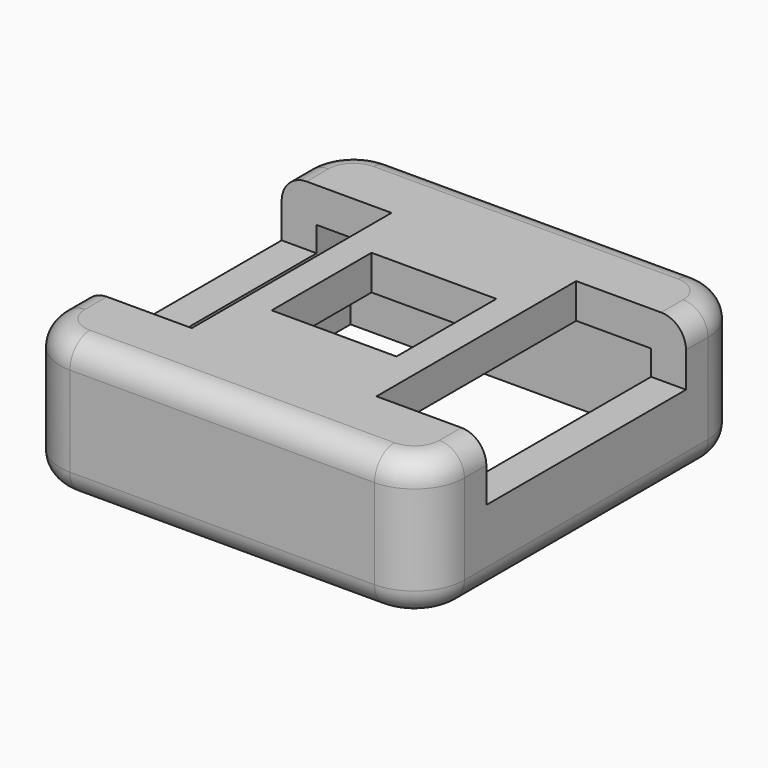
from build123d import *

# Parameters (mm, degrees)
F0_W      = 20.574
F0_H      = 20.574
F1_DEPTH  = 7.112
F2_W      = 17.018
F2_H      = 17.018
F3_DEPTH  = 5.334
F4_R      = 2.54
F5_W      = 5.588
F5_H      = 12.7
F6_DEPTH  = 3.048
F7_W      = 11.176
F7_H      = 12.7
F8_DEPTH  = 3.048
F9_W      = 6.35
F9_H      = 6.35
F10_DEPTH = 1.778
F11_R     = 1.27
F12_R     = 1.27


with BuildPart() as f1:
    # F0 (on Top) → F1 (new body)
    with BuildSketch(Plane.XY):
        Rectangle(F0_W, F0_H)
    extrude(amount=F1_DEPTH)

    # F2 (on face) → F3 (cut)
    with BuildSketch(Plane(origin=(0, 0, 0), x_dir=(1, 0, 0), z_dir=(0, 0, -1))):
        Rectangle(F2_W, F2_H)
    extrude(amount=-F3_DEPTH, mode=Mode.SUBTRACT)

    # F4
    f4_edges = [f1.edges().sort_by_distance(p)[0] for p in [
        (-10.287, -10.287, 3.556),
        (10.287, 10.287, 3.556),
        (10.287, -10.287, 3.556),
        (-10.287, 10.287, 3.556),
    ]]
    fillet(f4_edges, radius=F4_R)

    # F5 (on face) → F6 (cut)
    with BuildSketch(Plane.XY.offset(7.112)):
        with Locations((-7.493, 0)):
            Rectangle(F5_W, F5_H)
    extrude(amount=-F6_DEPTH, mode=Mode.SUBTRACT)

    # F7 (on face) → F8 (cut)
    with BuildSketch(Plane.XY.offset(7.112)):
        with Locations((10.287, 0)):
            Rectangle(F7_W, F7_H)
    extrude(amount=-F8_DEPTH, mode=Mode.SUBTRACT)

    # F9 (on face) → F10 (cut)
    with BuildSketch(Plane.XY.offset(7.112)):
        Rectangle(F9_W, F9_H)
    extrude(amount=-F10_DEPTH, mode=Mode.SUBTRACT)

    # F11
    f11_edges = [f1.edges().sort_by_distance(p)[0] for p in [
        (0, 10.287, 7.112),
        (0, -10.287, 7.112),
    ]]
    fillet(f11_edges, radius=F11_R)

    # F12
    f12_edges = [f1.edges().sort_by_distance(p)[0] for p in [
        (-10.287, 0, 0),
        (0, 10.287, 0),
        (-9.543051, 9.543051, 0),
    ]]
    fillet(f12_edges, radius=F12_R)


solid = f1.part
